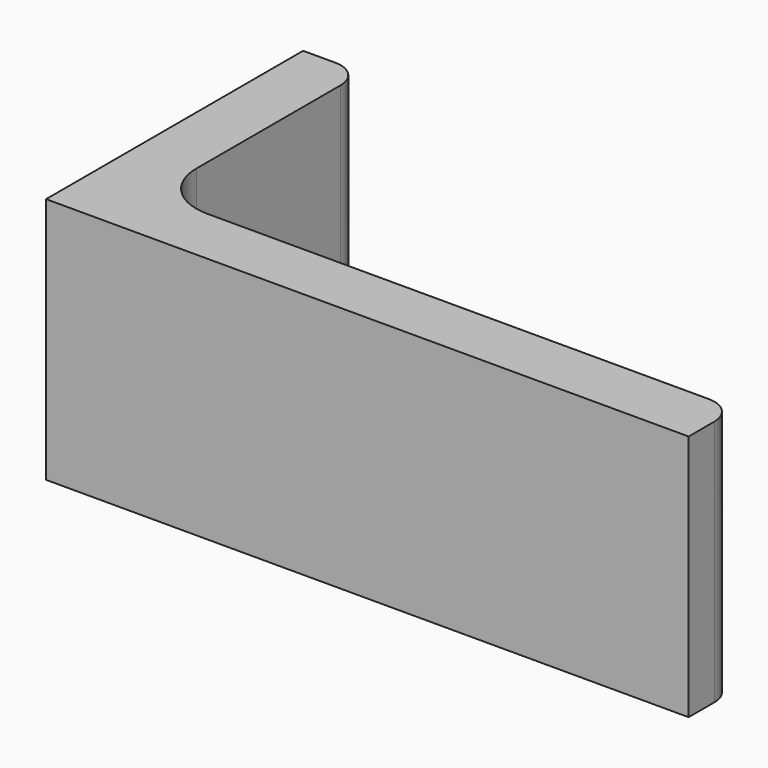
from build123d import *

# Parameters (mm, degrees)
EXTRUDE_DEPTH = 50


with BuildPart() as part:
    # Sketch → Extrude (new body)
    with BuildSketch(Plane.XY):
        with BuildLine():
            Line((0, 0), (130, 0))
            Line((130, 0), (130, 6.5))
            ThreePointArc((130, 6.5), (128.389087, 10.389087), (124.5, 12))
            Line((124.5, 12), (23, 12))
            ThreePointArc((12, 23), (15.221825, 15.221825), (23, 12))
            Line((12, 59.5), (12, 23))
            ThreePointArc((12, 59.5), (10.389087, 63.389087), (6.5, 65))
            Line((0, 65), (6.5, 65))
            Line((0, 0), (0, 65))
        make_face()
    extrude(amount=EXTRUDE_DEPTH)


solid = part.part
